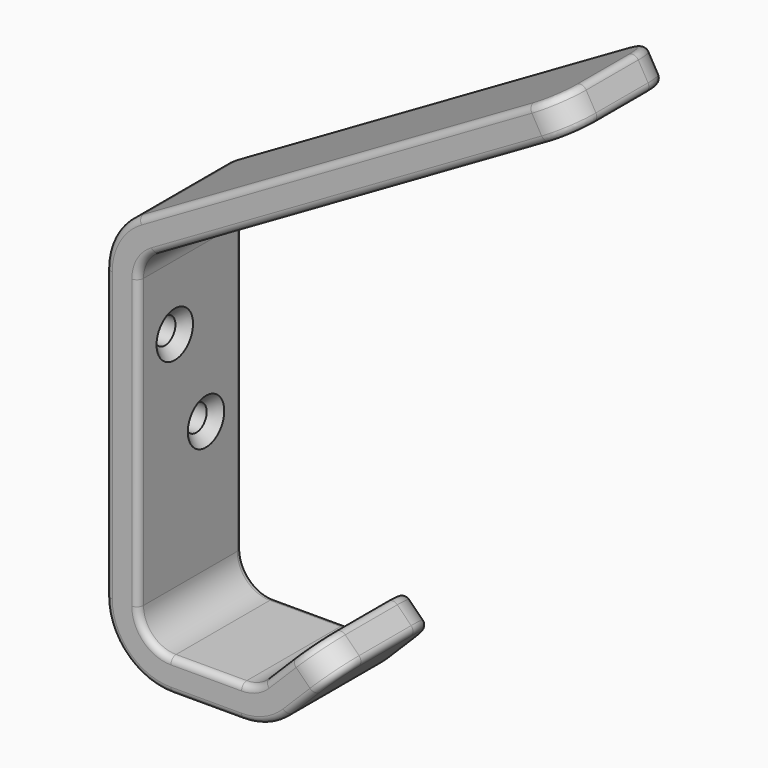
from build123d import *

# Parameters (mm, degrees)
F1_DEPTH        = 20
F2_R            = 10
F3_R            = 10
F4_R            = 5
F5_R            = 5
F6_R            = 5
F7_R            = 5
F8_R            = 1
F10_D           = 4
F10_CSINK_D     = 7
F10_CSINK_ANGLE = 90


with BuildPart() as f1:
    # F0 (on Front) → F1 (new body)
    with BuildSketch(Plane.XZ):
        Polygon((33.675430585, 61.2683971646), (-35.6066017178, 21.2683971646), (-35.6066017178, -33.7316028354), (-35.6066017178, -38.7316028354), (-30.6066017178, -38.7316028354), (-10.6066017178, -38.7316028354), (0, -28.1250011176), (-3.5355339059, -24.5894672117), (-12.6776695297, -33.7316028354), (-30.6066017178, -33.7316028354), (-30.6066017178, 18.3816458187), (36.175430585, 56.9382701457), align=None)
    extrude(amount=F1_DEPTH)

    # F2
    f2_edges = [f1.edges().sort_by_distance(p)[0] for p in [
        (-35.606602, -10, 21.268397),
    ]]
    fillet(f2_edges, radius=F2_R)

    # F3
    f3_edges = [f1.edges().sort_by_distance(p)[0] for p in [
        (-35.606602, -10, -38.731603),
        (-10.606602, -10, -38.731603),
    ]]
    fillet(f3_edges, radius=F3_R)

    # F4
    f4_edges = [f1.edges().sort_by_distance(p)[0] for p in [
        (-30.606602, -10, -33.731603),
        (-12.67767, -10, -33.731603),
    ]]
    fillet(f4_edges, radius=F4_R)

    # F5
    f5_edges = [f1.edges().sort_by_distance(p)[0] for p in [
        (-30.606602, -10, 18.381646),
    ]]
    fillet(f5_edges, radius=F5_R)

    # F6
    f6_edges = [f1.edges().sort_by_distance(p)[0] for p in [
        (-1.767767, 0, -26.357234),
        (-1.767767, -20, -26.357234),
    ]]
    fillet(f6_edges, radius=F6_R)

    # F7
    f7_edges = [f1.edges().sort_by_distance(p)[0] for p in [
        (34.925431, 0, 59.103334),
        (34.925431, -20, 59.103334),
    ]]
    fillet(f7_edges, radius=F7_R)

    # F8
    f8_edges = [f1.edges().sort_by_distance(p)[0] for p in [
        (-0.630649, -20, 41.461773),
        (1.869351, -20, 37.131646),
        (32.407166, -18.535534, 60.536164),
        (34.907166, -18.535534, 56.206037),
    ]]
    fillet(f8_edges, radius=F8_R)

    # F10 (through all)
    with Locations(Plane.YZ.offset(-30.6066017178)):
        with Locations((-13, 5.4948944727), (-7, -8.7316028354)):
            CounterSinkHole(F10_D / 2, F10_CSINK_D / 2, counter_sink_angle=F10_CSINK_ANGLE)


solid = f1.part
